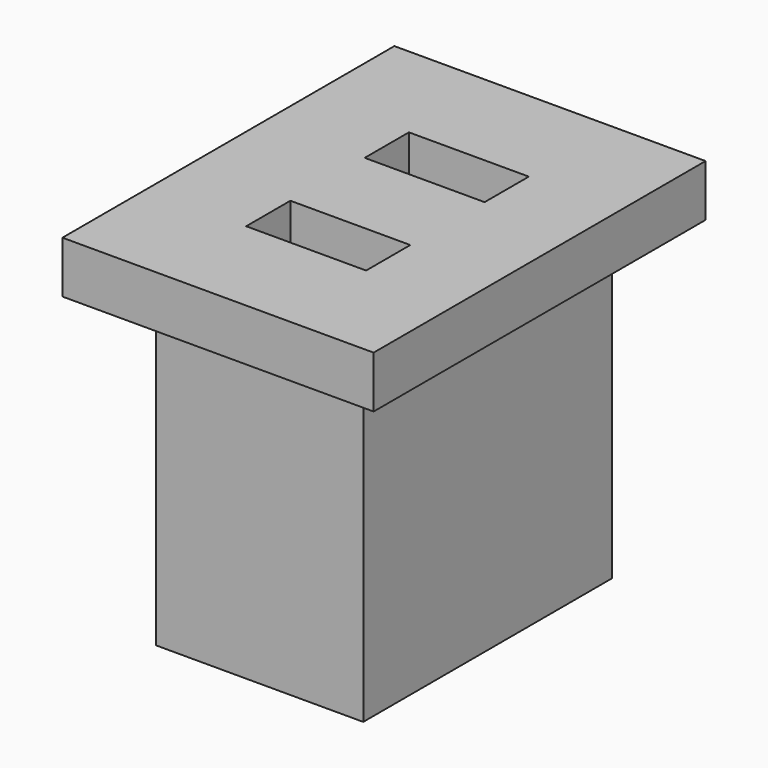
from build123d import *

# Parameters (mm, degrees)
SKETCH016_W     = 3
SKETCH016_H     = 4
PAD006_DEPTH    = 0.5
SKETCH017_W     = 2
SKETCH017_H     = 3
PAD007_DEPTH    = 3
SKETCH018_W     = 1.156093
SKETCH018_H     = 0.532709
POCKET002_DEPTH = 5


with BuildPart() as part:
    # Sketch016 (on ShapeBinder) → Pad006 (new body)
    with BuildSketch(Plane(origin=(0, 0, -1.1), x_dir=(1, 0, 0), z_dir=(0, 0, -1))):
        with Locations((-28.48764, -5.707956)):
            Rectangle(SKETCH016_W, SKETCH016_H)
    extrude(amount=PAD006_DEPTH)

    # Sketch017 (on Face6 of Pad006) → Pad007 (join)
    with BuildSketch(Plane(origin=(0, 0, -1.6), x_dir=(1, 0, 0), z_dir=(0, 0, -1))):
        with Locations((-28.48764, -5.707956)):
            Rectangle(SKETCH017_W, SKETCH017_H)
    extrude(amount=PAD007_DEPTH)

    # Sketch018 (on Face11 of Pad007) → Pocket002 (cut)
    with BuildSketch(Plane(origin=(0, 0, -4.6), x_dir=(1, 0, 0), z_dir=(0, 0, -1))):
        with Locations((-28.445949, -4.983932)):
            Rectangle(SKETCH018_W, SKETCH018_H)
        with Locations((-28.445949, -6.412046)):
            Rectangle(SKETCH018_W, SKETCH018_H)
    extrude(amount=-POCKET002_DEPTH, mode=Mode.SUBTRACT)


solid = part.part
